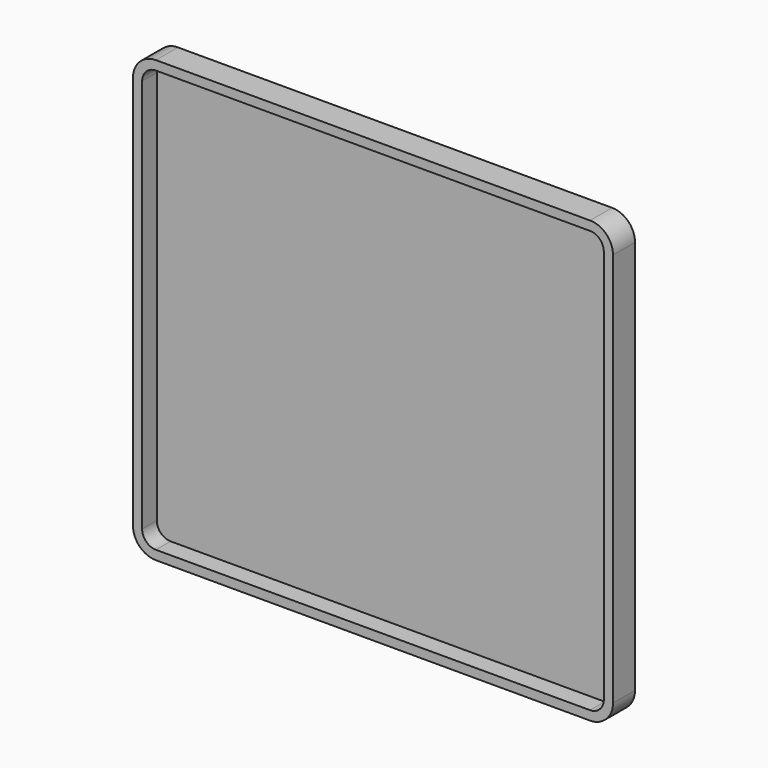
from build123d import *

# Parameters (mm, degrees)
F1_DEPTH = 7.62
F2_T     = -2.54


with BuildPart() as f1:
    # F0 (on Front) → F1 (new body)
    with BuildSketch(Plane.XZ):
        with BuildLine():
            Line((59.459757, 60.312882), (-60.681279, 60.312882))
            ThreePointArc((-60.681279, 60.312882), (-65.171407, 58.45301), (-67.031279, 53.962882))
            Line((-67.031279, 53.962882), (-67.031279, -55.184408))
            ThreePointArc((-67.031279, -55.184408), (-65.171407, -59.674537), (-60.681279, -61.534408))
            Line((-60.681279, -61.534408), (59.459757, -61.534408))
            ThreePointArc((59.459757, -61.534408), (63.949885, -59.674537), (65.809757, -55.184408))
            Line((65.809757, -55.184408), (65.809757, 53.962882))
            ThreePointArc((65.809757, 53.962882), (63.949885, 58.45301), (59.459757, 60.312882))
        make_face()
    extrude(amount=F1_DEPTH)

    # F2
    f2_openings = [f1.faces().sort_by_distance(p)[0] for p in [
        (-0.610761, -7.62, -0.610763),
    ]]
    offset(amount=F2_T, openings=f2_openings)


solid = f1.part
